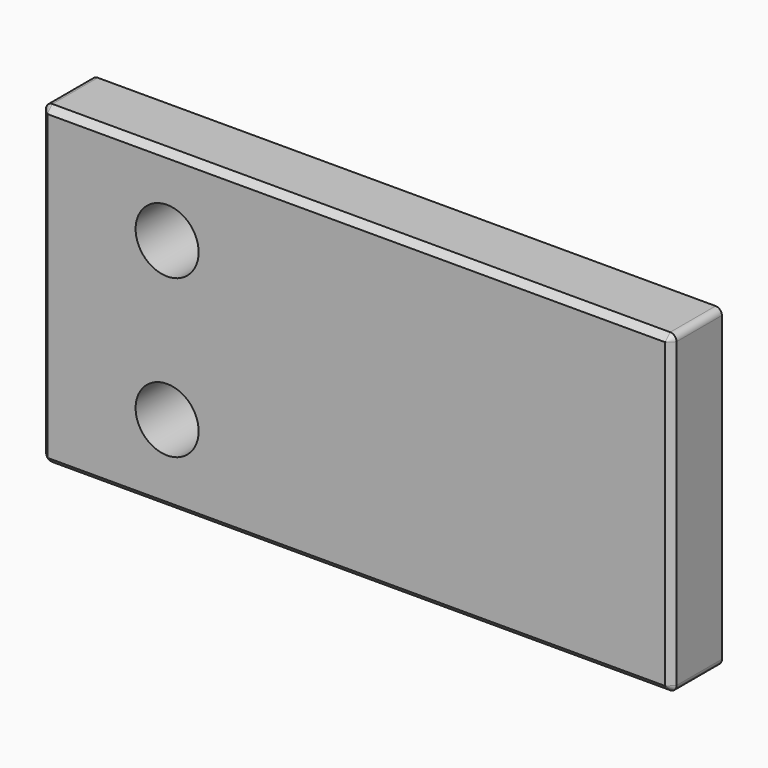
from build123d import *

# Parameters (mm, degrees)
F0_W     = 100
F0_H     = 50
F0_R     = 5
F1_DEPTH = 10
F2_R     = 1
F3_SIZE  = 1


with BuildPart() as f1:
    # F0 (on Front) → F1 (new body)
    with BuildSketch(Plane.XZ):
        Rectangle(F0_W, F0_H)
        with Locations((-30, -12.5)):
            Circle(F0_R, mode=Mode.SUBTRACT)
        with Locations((-30, 12.5)):
            Circle(F0_R, mode=Mode.SUBTRACT)
    extrude(amount=F1_DEPTH)

    # F2
    f2_edges = [f1.edges().sort_by_distance(p)[0] for p in [
        (50, -5, -25),
        (-50, -5, -25),
        (-50, -5, 25),
        (50, -5, 25),
    ]]
    fillet(f2_edges, radius=F2_R)

    # F3
    f3_edges = [f1.edges().sort_by_distance(p)[0] for p in [
        (50, -10, 0),
        (0, -10, -25),
        (-50, -10, 0),
        (0, -10, 25),
    ]]
    chamfer(f3_edges, length=F3_SIZE)


solid = f1.part
